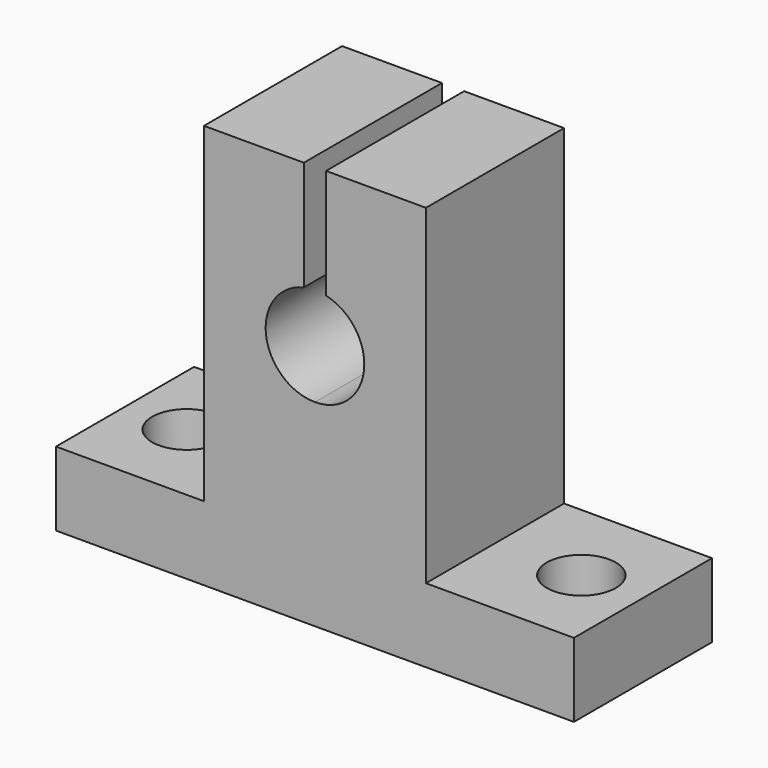
from build123d import *

# Parameters (mm, degrees)
PAD_DEPTH      = 7
PAD_DEPTH_BACK = 7
SKETCH720_R    = 2.8
POCKET_DEPTH   = 100


with BuildPart() as part:
    # Sketch719 → Pad (new body, two sides)
    with BuildSketch(Plane.XZ) as pad_sk:
        with BuildLine():
            Line((0.9, 32.8), (9, 32.8))
            Line((9, 32.8), (9, 6))
            Line((9, 6), (21, 6))
            Line((21, 6), (21, 0))
            Line((21, 0), (0, 0))
            Line((0, 0), (0, 16))
            ThreePointArc((0, 16), (3.974276, 19.547087), (0.9, 23.897435))
            Line((0.9, 32.8), (0.9, 23.897435))
        make_face()
    pad = extrude(amount=PAD_DEPTH) + extrude(pad_sk.sketch, amount=-PAD_DEPTH_BACK)

    # Mirrored: Pad across Sketch719 V_Axis
    add(pad.mirror(Plane(origin=(0, 0, 0), x_dir=(0, -1, 0), z_dir=(1, 0, 0))))

    # Sketch720 (on Face4 of Mirrored) → Pocket (cut)
    with BuildSketch(Plane(origin=(0, 0, 6), x_dir=(-1, 0, 0), z_dir=(0, 0, 1))):
        with Locations((16, 0)):
            Circle(SKETCH720_R)
        with Locations((-16, 0)):
            Circle(SKETCH720_R)
    extrude(amount=-POCKET_DEPTH, mode=Mode.SUBTRACT)


solid = part.part
